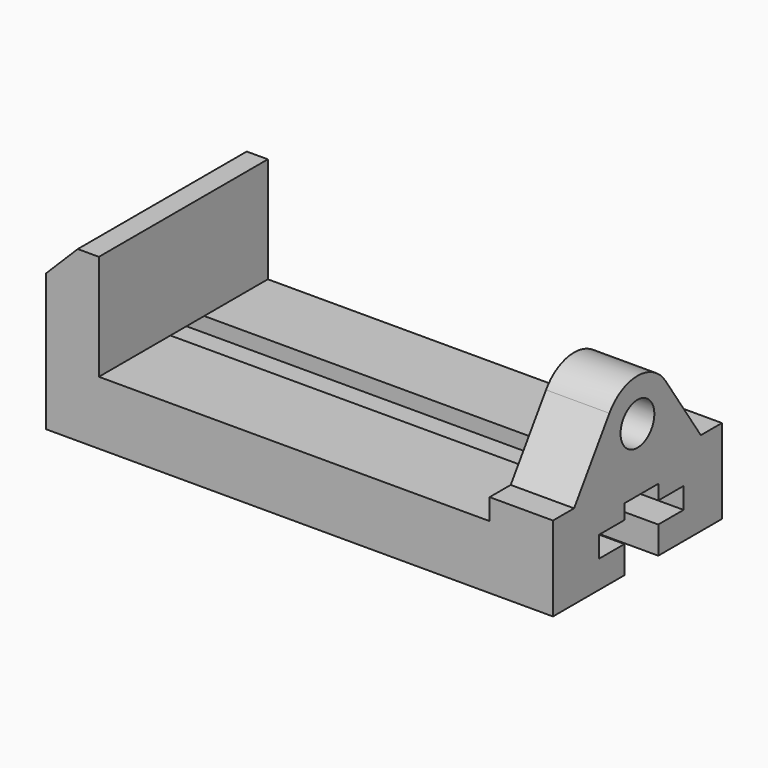
from build123d import *

# Parameters (mm, degrees)
F1_DEPTH = 127
F2_SIZE  = 19.05
F4_DEPTH = 304.8
F5_R     = 12.7
F6_DEPTH = 38.1


with BuildPart() as f1:
    # F0 (on Front) → F1 (new body)
    with BuildSketch(Plane.XZ):
        Polygon((31.75, 101.6), (0, 101.6), (0, 0), (304.8, 0), (304.8, 101.6), (266.7, 101.6), (266.7, 38.1), (31.75, 38.1), align=None)
    extrude(amount=F1_DEPTH)

    # F2
    f2_edges = [f1.edges().sort_by_distance(p)[0] for p in [
        (0, -63.5, 101.6),
    ]]
    chamfer(f2_edges, length=F2_SIZE)

    # F3 (on Right) → F4 (cut, through all)
    with BuildSketch(Plane.YZ):
        Polygon((-73.250479, 0), (-47.850479, 0), (-47.850479, 16.51), (-28.800479, 16.51), (-28.800479, 29.21), (-47.850479, 29.21), (-47.850479, 38.1), (-73.250479, 38.1), (-73.250479, 29.21), (-92.300479, 29.21), (-92.300479, 16.51), (-73.250479, 16.51), align=None)
    extrude(amount=F4_DEPTH, mode=Mode.SUBTRACT)

    # F5 (on face) → F6 (cut, through all)
    with BuildSketch(Plane.YZ.offset(304.8)):
        with BuildLine():
            Line((-127, 101.6), (-127, 50.8))
            Line((-127, 50.8), (-111.125, 50.8))
            Line((-111.125, 50.8), (-84.593251, 90.349379))
            ThreePointArc((-84.593251, 90.349379), (-63.5, 101.598947), (-42.406749, 90.349379))
            Line((-42.406749, 90.349379), (-15.875, 50.8))
            Line((-15.875, 50.8), (0, 50.8))
            Line((0, 50.8), (0, 101.6))
            Line((0, 101.6), (-127, 101.6))
        make_face()
        with Locations((-63.5, 76.198947)):
            Circle(F5_R)
    extrude(amount=-F6_DEPTH, mode=Mode.SUBTRACT)


solid = f1.part
